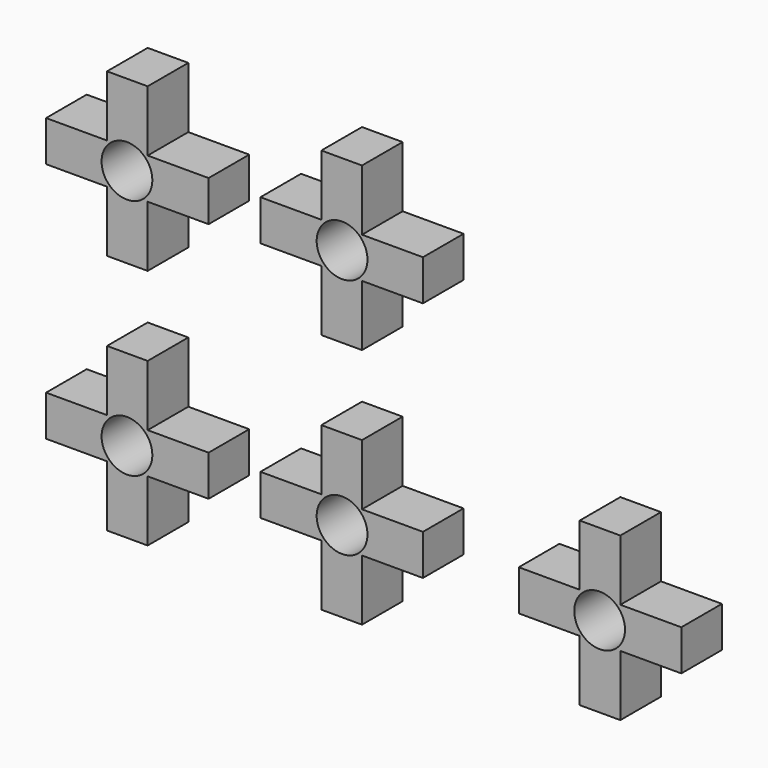
from build123d import *

# Parameters (mm, degrees)
F0_R     = 3.175
F1_DEPTH = 6.35
F2_DEPTH = 6.35


with BuildPart() as f1:
    # F0 (on Front) → F1 (new body)
    with BuildSketch(Plane.XZ):
        Polygon((-57.38823, 61.426864), (-62.46823, 61.426864), (-62.46823, 53.806864), (-70.08823, 53.806864), (-70.08823, 48.726864), (-62.46823, 48.726864), (-62.46823, 41.106864), (-57.38823, 41.106864), (-57.38823, 48.726864), (-49.76823, 48.726864), (-49.76823, 53.806864), (-57.38823, 53.806864), align=None)
        with Locations((-59.976693, 51.2833)):
            Circle(F0_R, mode=Mode.SUBTRACT)
    extrude(amount=F1_DEPTH)


with BuildPart() as f2:
    # F0 (on Front) → F2 (new body)
    with BuildSketch(Plane.XZ):
        Polygon((-43.28859, 53.806864), (-43.28859, 48.726864), (-35.66859, 48.726864), (-35.66859, 41.106864), (-30.58859, 41.106864), (-30.58859, 48.726864), (-22.96859, 48.726864), (-22.96859, 53.806864), (-30.58859, 53.806864), (-30.58859, 61.426864), (-35.66859, 61.426864), (-35.66859, 53.806864), align=None)
        with Locations((-33.080127, 51.2833)):
            Circle(F0_R, mode=Mode.SUBTRACT)
        Polygon((-49.76823, 18.500804), (-49.76823, 23.580804), (-57.38823, 23.580804), (-57.38823, 31.200804), (-62.46823, 31.200804), (-62.46823, 23.580804), (-70.08823, 23.580804), (-70.08823, 18.500804), (-62.46823, 18.500804), (-62.46823, 10.880804), (-57.38823, 10.880804), (-57.38823, 18.500804), align=None)
        with Locations((-59.976693, 21.024369)):
            Circle(F0_R, mode=Mode.SUBTRACT)
        Polygon((-30.58859, 31.200804), (-35.66859, 31.200804), (-35.66859, 23.580804), (-43.28859, 23.580804), (-43.28859, 18.500804), (-35.66859, 18.500804), (-35.66859, 10.880804), (-30.58859, 10.880804), (-30.58859, 18.500804), (-22.96859, 18.500804), (-22.96859, 23.580804), (-30.58859, 23.580804), align=None)
        with Locations((-33.080127, 21.024369)):
            Circle(F0_R, mode=Mode.SUBTRACT)
        Polygon((-10.98457, 23.580804), (-10.98457, 18.500804), (-3.36457, 18.500804), (-3.36457, 10.880804), (1.71543, 10.880804), (1.71543, 18.500804), (9.33543, 18.500804), (9.33543, 23.580804), (1.71543, 23.580804), (1.71543, 31.200804), (-3.36457, 31.200804), (-3.36457, 23.580804), align=None)
        with Locations((-0.873033, 21.024369)):
            Circle(F0_R, mode=Mode.SUBTRACT)
    extrude(amount=F2_DEPTH)


solid = Compound([f1.part, f2.part])
